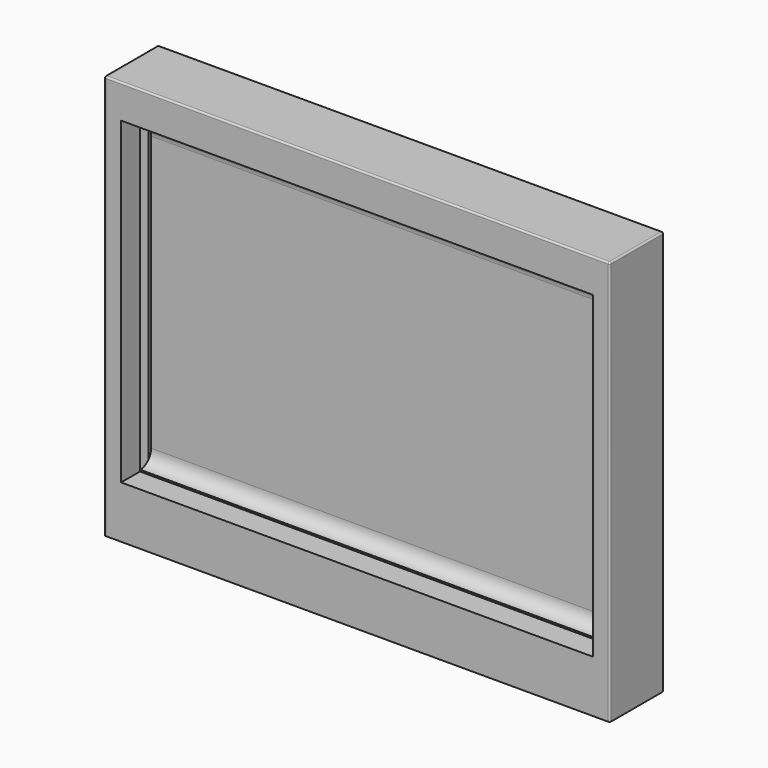
from build123d import *

# Parameters (mm, degrees)
F0_W     = 1500
F0_H     = 1200
F1_DEPTH = 200
F2_R     = 5
F3_W     = 1350
F3_H     = 895
F4_DEPTH = 80
F5_R     = 40
F6_W     = 1400
F6_H     = 945
F6_W_2   = 1350
F6_H_2   = 895
F7_DEPTH = 70


with BuildPart() as f1:
    # F0 (on Front) → F1 (new body)
    with BuildSketch(Plane.XZ):
        with Locations((-750, 600)):
            Rectangle(F0_W, F0_H)
    extrude(amount=F1_DEPTH)

    # F2
    f2_edges = [f1.edges().sort_by_distance(p)[0] for p in [
        (-1500, -100, 1200),
        (0, -100, 1200),
        (-750, 0, 1200),
        (-750, -200, 1200),
        (-1500, -200, 600),
        (-1500, 0, 600),
        (0, -200, 600),
        (0, 0, 600),
    ]]
    fillet(f2_edges, radius=F2_R)

    # F3 (on face) → F4 (cut)
    with BuildSketch(Plane.XZ.offset(200)):
        with Locations((-750, 627.5)):
            Rectangle(F3_W, F3_H)
    extrude(amount=-F4_DEPTH, mode=Mode.SUBTRACT)

    # F5
    f5_edges = [f1.edges().sort_by_distance(p)[0] for p in [
        (-750, -120, 180),
        (-750, -120, 1075),
    ]]
    fillet(f5_edges, radius=F5_R)

    # F6 (on face) → F7 (cut)
    with BuildSketch(Plane.XZ.offset(200)):
        with Locations((-750, 627.5)):
            Rectangle(F6_W, F6_H)
        with Locations((-750, 627.5)):
            Rectangle(F6_W_2, F6_H_2, mode=Mode.SUBTRACT)
    extrude(amount=-F7_DEPTH, mode=Mode.SUBTRACT)


solid = f1.part
